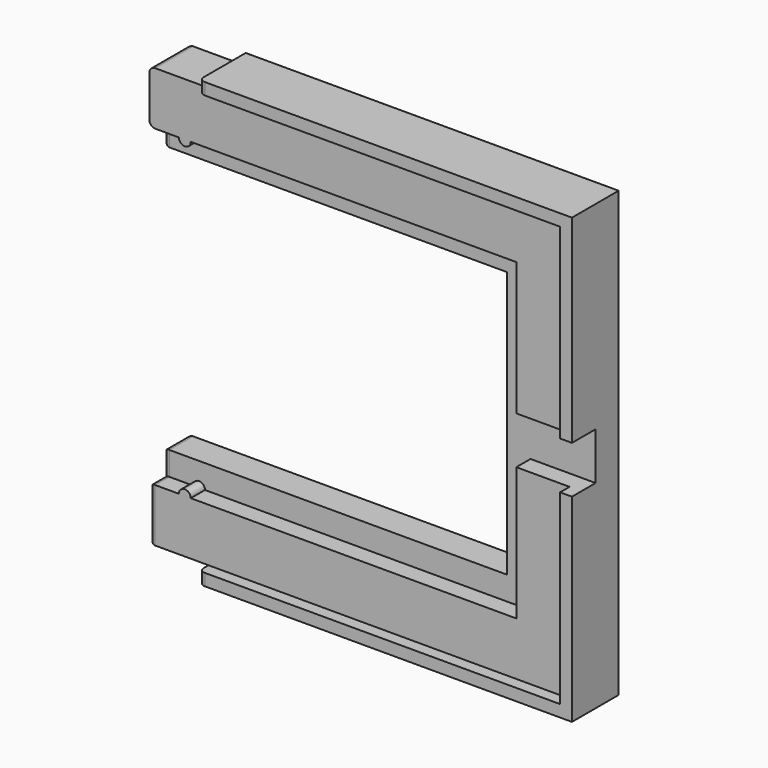
from build123d import *

# Parameters (mm, degrees)
PAD002_DEPTH       = 17.75
PAD002_DEPTH_BACK  = 17.75
POLARPATTERN_COUNT = 2
POLARPATTERN_ANGLE = 270
FILLET_R           = 0.5
PAD004_DEPTH       = 1.5
PAD005_DEPTH       = 5
FILLET005_R        = 0.1
FILLET006_R        = 0.5
FILLET007_R        = 0.5
SKETCH009_W        = 2.5
SKETCH009_H        = 4
POCKET001_DEPTH    = 36.501


with BuildPart() as part:
    # Sketch003 → Pad002 (new body, two sides)
    with BuildSketch(Plane.YZ) as pad002_sk:
        Polygon((0, -17.75), (4, -17.75), (4, -11.25), (1.5, -11.25), (1.5, -13.25), (0, -13.25), align=None)
    pad002 = extrude(amount=PAD002_DEPTH) + extrude(pad002_sk.sketch, amount=-PAD002_DEPTH_BACK)

    # PolarPattern: Pad002 ×2 about axis
    polarpattern_axis = Axis((0, 0, 0), (0, 1, 0))
    for i in range(1, POLARPATTERN_COUNT):
        add(pad002.rotate(polarpattern_axis, i * POLARPATTERN_ANGLE / (POLARPATTERN_COUNT - 1)))

    # Mirrored: Pad002 across Sketch003 H_Axis
    add(pad002.mirror(Plane.XY))

    # Fillet
    fillet_edges = [part.edges().sort_by_distance(p)[0] for p in [
        (-17.75, 4, 14.5),
        (-17.75, 2.75, 11.25),
        (-17.75, 0.75, 13.25),
        (-17.75, 1.5, 12.25),
        (-17.75, 2, 17.75),
    ]]
    fillet(fillet_edges, radius=FILLET_R)

    # Sketch007 → Pad004 (join)
    with BuildSketch(Plane(origin=(0, 1.5, 0), x_dir=(0, 0, -1), z_dir=(0, -1, 0))):
        with BuildLine():
            ThreePointArc((-13.25, -15.25), (-12.75, -14.75), (-13.25, -14.25))
            Line((-13.25, -14.25), (-13.25, -15.25))
        make_face()
    pad004 = extrude(amount=PAD004_DEPTH)

    # Sketch008 (on Face25 of Pad004) → Pad005 (join)
    with BuildSketch(Plane.ZX.offset(4)):
        Polygon((-18.75, 18.75), (18.75, 18.75), (18.75, -12.75), (17.75, -12.75), (17.75, 17.75), (-17.75, 17.75), (-17.75, -12.75), (-18.75, -12.75), align=None)
    extrude(amount=-PAD005_DEPTH)

    # Fillet005
    fillet005_edges = [part.edges().sort_by_distance(p)[0] for p in [
        (18.75, 4, 0),
        (3, 4, -18.75),
        (3, 4, 18.75),
    ]]
    fillet(fillet005_edges, radius=FILLET005_R)

    # Fillet006
    fillet006_edges = [part.edges().sort_by_distance(p)[0] for p in [
        (-17.75, 2.75, -11.25),
        (-17.75, 1.5, -12.25),
        (-17.75, 0, -15.5),
        (-17.75, 0.75, -13.25),
        (-17.75, 4, -14.5),
        (-17.75, 2, -17.75),
    ]]
    fillet(fillet006_edges, radius=FILLET006_R)

    # Fillet007
    fillet007_edges = [part.edges().sort_by_distance(p)[0] for p in [
        (-12.75, -1, 18.25),
        (-12.75, -1, -18.25),
    ]]
    fillet(fillet007_edges, radius=FILLET007_R)

    # Mirrored001: Pad004 across Sketch007 V_Axis
    add(pad004.mirror(Plane(origin=(0, 1.5, 0), x_dir=(0, -1, 0), z_dir=(0, 0, -1))))

    # Sketch009 (on Face9 of Mirrored001) → Pocket001 (cut, through all)
    with BuildSketch(Plane.YZ.offset(18.75)):
        with Locations((0.25, 0)):
            Rectangle(SKETCH009_W, SKETCH009_H)
    extrude(amount=-POCKET001_DEPTH, mode=Mode.SUBTRACT)


with BuildPart() as part_1:
    # Body001 placement: moved
    add(part.part.moved(Location((0, 0.3, 0))))


solid = part_1.part
